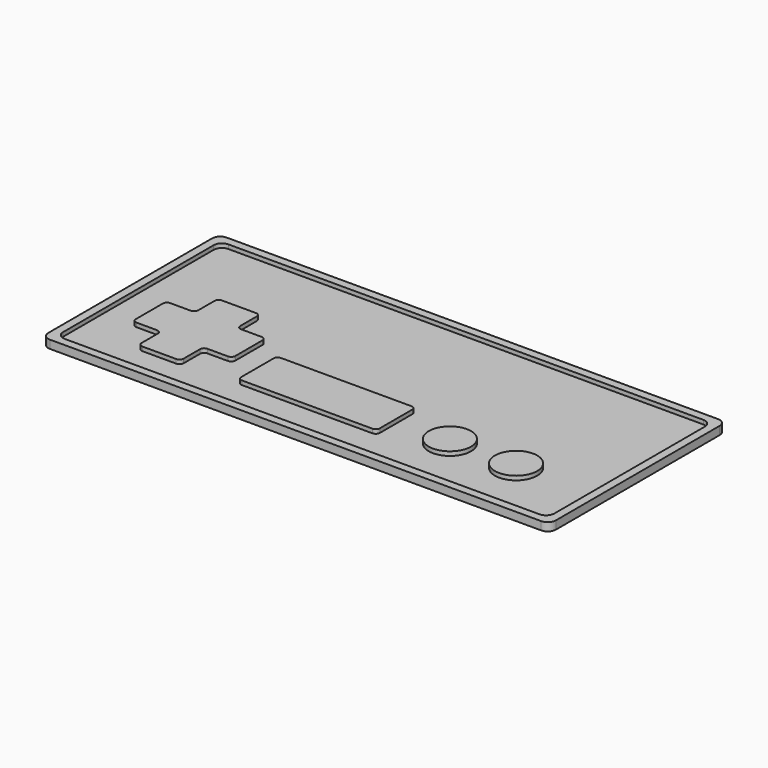
from build123d import *

# Parameters (mm, degrees)
PAD_DEPTH    = 1
SKETCH001_R  = 5.16
SKETCH001_W  = 33.87
SKETCH001_H  = 11.9
PAD001_DEPTH = 1
FILLET_R     = 1


with BuildPart() as part:
    # Sketch → Pad (new body)
    with BuildSketch(Plane.XY):
        with BuildLine():
            Line((2, 54), (122, 54))
            ThreePointArc((124, 52), (123.414214, 53.414214), (122, 54))
            Line((124, 52), (124, 2))
            ThreePointArc((122, 0), (123.414214, 0.585786), (124, 2))
            Line((122, 0), (2, 0))
            ThreePointArc((0, 2), (0.585786, 0.585786), (2, 0))
            Line((0, 2), (0, 52))
            ThreePointArc((2, 54), (0.585786, 53.414214), (0, 52))
        make_face()
    extrude(amount=PAD_DEPTH)

    # Sketch001 (on Face10 of Pad) → Pad001 (join)
    with BuildSketch(Plane.XY.offset(1)):
        with BuildLine():
            ThreePointArc((2, 54), (0.585786, 53.414214), (0, 52))
            Line((0, 2), (0, 52))
            ThreePointArc((0, 2), (0.585786, 0.585786), (2, 0))
            Line((122, 0), (2, 0))
            ThreePointArc((122, 0), (123.414214, 0.585786), (124, 2))
            Line((124, 52), (124, 2))
            ThreePointArc((124, 52), (123.414214, 53.414214), (122, 54))
            Line((2, 54), (122, 54))
        make_face()
        with BuildLine():
            Line((4, 52), (120, 52))
            ThreePointArc((122, 50), (121.414214, 51.414214), (120, 52))
            Line((122, 50), (122, 4))
            ThreePointArc((120, 2), (121.414214, 2.585786), (122, 4))
            Line((120, 2), (4, 2))
            ThreePointArc((2, 4), (2.585786, 2.585786), (4, 2))
            Line((2, 4), (2, 50))
            ThreePointArc((4, 52), (2.585786, 51.414214), (2, 50))
        make_face(mode=Mode.SUBTRACT)
        with Locations((87.175, 15.665)):
            Circle(SKETCH001_R)
        with Locations((103.335, 15.665)):
            Circle(SKETCH001_R)
        Polygon((9.48, 26.12), (16.5, 26.12), (16.5, 33.14), (26.8, 33.14), (26.8, 26.12), (33.82, 26.12), (33.82, 15.82), (26.8, 15.82), (26.8, 8.8), (16.5, 8.8), (16.5, 15.82), (9.48, 15.82), align=None)
        with Locations((57.075, 15.665)):
            Rectangle(SKETCH001_W, SKETCH001_H)
    extrude(amount=PAD001_DEPTH)

    # Fillet
    fillet_edges = [part.edges().sort_by_distance(p)[0] for p in [
        (26.8, 15.82, 1.5),
        (33.82, 15.82, 1.5),
        (33.82, 26.12, 1.5),
        (26.8, 33.14, 1.5),
        (74.01, 9.715, 1.5),
        (74.01, 21.615, 1.5),
        (40.14, 9.715, 1.5),
        (26.8, 8.8, 1.5),
        (16.5, 8.8, 1.5),
        (9.48, 15.82, 1.5),
        (26.8, 26.12, 1.5),
        (40.14, 21.615, 1.5),
        (16.5, 33.14, 1.5),
        (9.48, 26.12, 1.5),
        (16.5, 26.12, 1.5),
        (16.5, 15.82, 1.5),
    ]]
    fillet(fillet_edges, radius=FILLET_R)


solid = part.part
